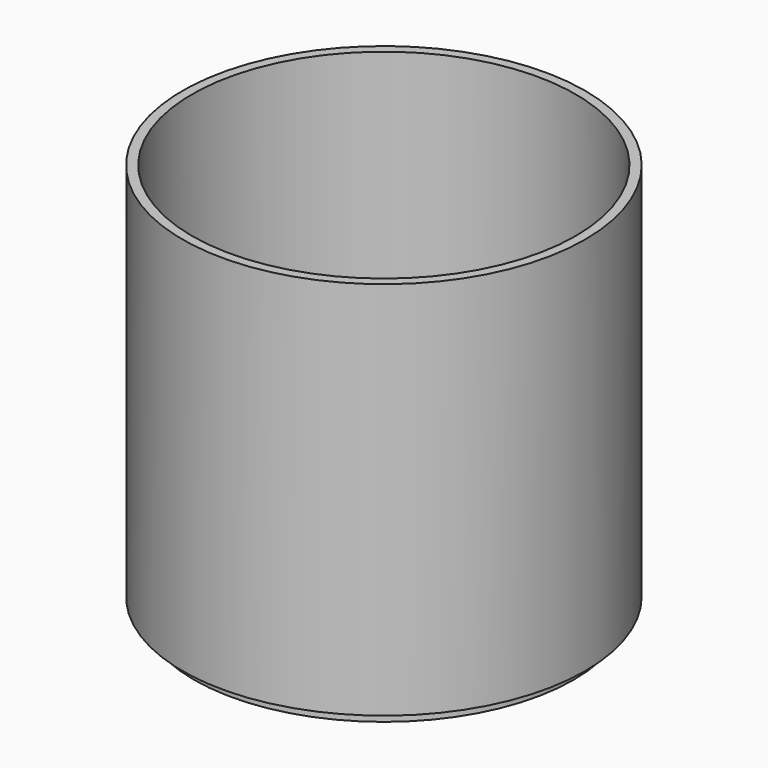
from build123d import *

# Parameters (mm, degrees)
F2_T = -2.5


with BuildPart() as f1:
    # F0 (on Front) → F1 (revolve)
    with BuildSketch(Plane.XZ):
        Polygon((-343.1598980381, -88.1673034342), (-343.1598980381, 11.8326965658), (-396.1598980381, 11.8326965658), (-396.1598980381, -91.1673034342), (-346.1598980381, -91.1673034342), (-346.1598980381, -88.1673034342), align=None)
    revolve(axis=Axis((-396.1598980381, 0, -39.6673034342), (0, 0, 1)))

    # F2
    f2_openings = [f1.faces().sort_by_distance(p)[0] for p in [
        (-396.159898, 0, 11.832697),
    ]]
    offset(amount=F2_T, openings=f2_openings, kind=Kind.INTERSECTION)


solid = f1.part
